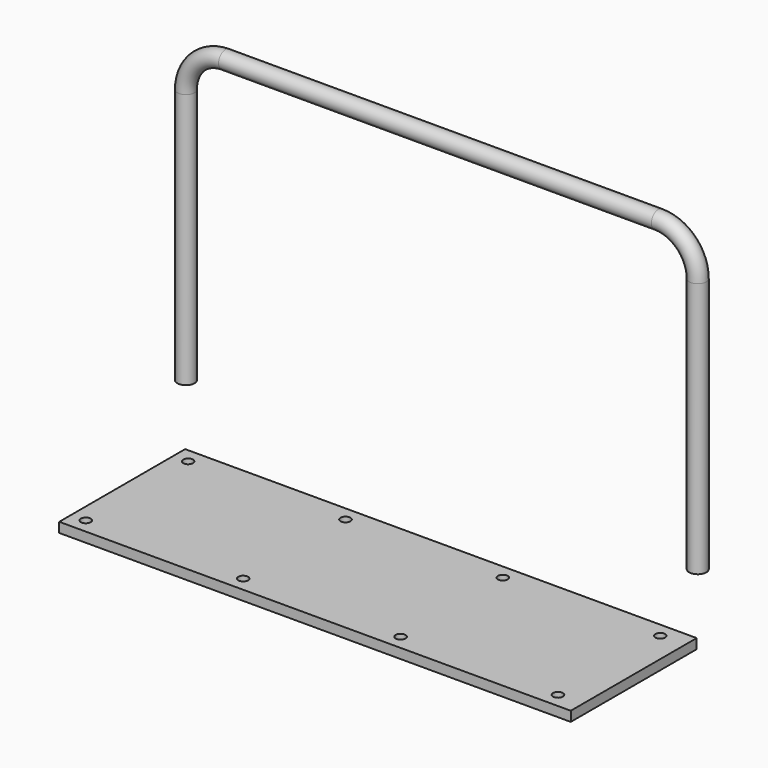
from build123d import *

# Parameters (mm, degrees)
F0_W     = 660.4
F0_H     = 203.2
F2_DEPTH = 12.7
F1_R     = 6.35
F3_DEPTH = 12.701
F6_R     = 11.1125
F6_R_2   = 9.525


with BuildPart() as f2:
    # F0 (on Top) → F2 (new body)
    with BuildSketch(Plane.XY):
        with Locations((0, -101.6)):
            Rectangle(F0_W, F0_H)
    extrude(amount=F2_DEPTH)

    # F1 (on face) → F3 (cut, through all)
    with BuildSketch(Plane.XY):
        with Locations((-311.15, -184.15)):
            Circle(F1_R)
        with Locations((-311.15, -19.05)):
            Circle(F1_R)
        with Locations((-107.95, -184.15)):
            Circle(F1_R)
        with Locations((-107.95, -19.05)):
            Circle(F1_R)
        with Locations((95.25, -184.15)):
            Circle(F1_R)
        with Locations((95.25, -19.05)):
            Circle(F1_R)
        with Locations((298.45, -184.15)):
            Circle(F1_R)
        with Locations((298.45, -19.05)):
            Circle(F1_R)
    extrude(amount=F3_DEPTH, mode=Mode.SUBTRACT)


with BuildPart() as f7:
    # F7: sweep along a path in F4
    with BuildLine(Plane.XZ) as f7_path:
        Line((-328.9887982047, 91.4388030012), (-328.9887982047, 421.6388030012))
        ThreePointArc((-328.9887982047, 421.6388030012), (-314.109822689, 457.5598274855), (-278.1887982047, 472.4388030012))
        Line((-278.1887982047, 472.4388030012), (280.6112017953, 472.4388030012))
        ThreePointArc((280.6112017953, 472.4388030012), (316.5322262796, 457.5598274855), (331.4112017953, 421.6388030012))
        Line((331.4112017953, 421.6388030012), (331.4112017953, 91.4388030012))
    # F6 (on plane+point) → F7 (sweep)
    with BuildSketch(Plane.XY.offset(91.4388030012)):
        with Locations((-329.1739225388, 0)):
            Circle(F6_R)
        with Locations((-329.1739225388, 0)):
            Circle(F6_R_2, mode=Mode.SUBTRACT)
    sweep(path=f7_path.line)


solid = Compound([f2.part, f7.part])
